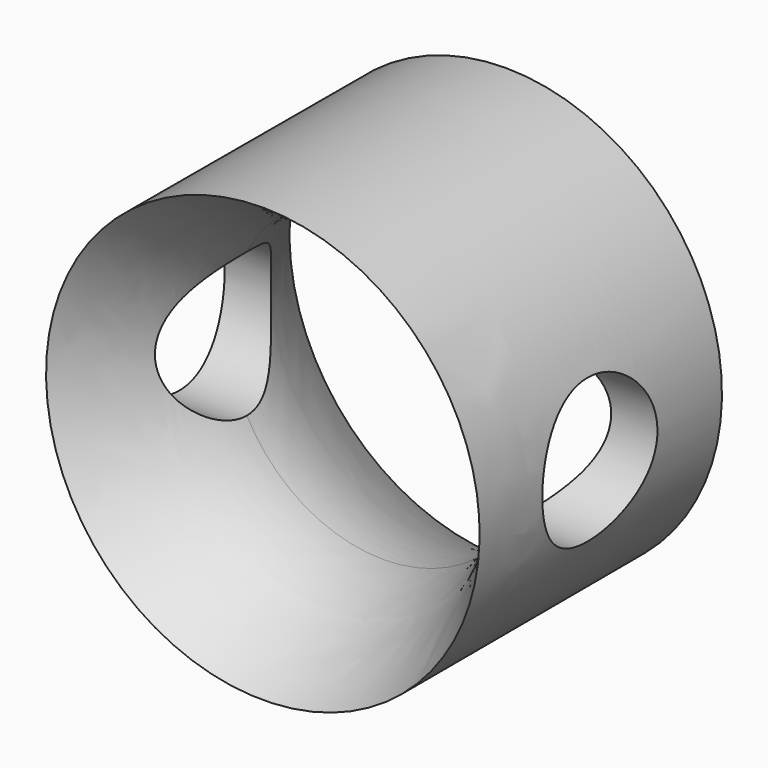
from build123d import *

# Parameters (mm, degrees)
F3_R          = 35
F4_DEPTH      = 30.268646
F4_DEPTH_BACK = 180.12566


with BuildPart() as f2:
    # F0 (on Right) → F2 (revolve)
    with BuildSketch(Plane.YZ):
        Polygon((0, 0), (-73.10988, -73.837318), (74.208237, -73.477146), align=None)
    revolve(axis=Axis((-74.928507, 7.300461, 0), (0, -1, 0)))

    # F3 (on Right) → F4 (cut, two sides)
    with BuildSketch(Plane.YZ) as f4_sk:
        Circle(F3_R)
    extrude(amount=F4_DEPTH, mode=Mode.SUBTRACT)
    extrude(f4_sk.sketch, amount=-F4_DEPTH_BACK, mode=Mode.SUBTRACT)


solid = f2.part
